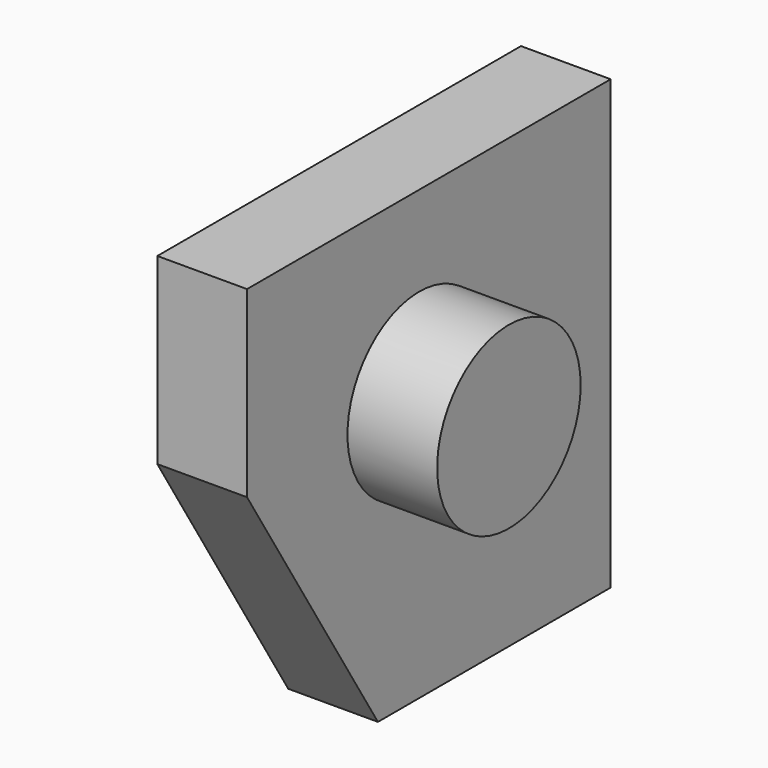
from build123d import *

# Parameters (mm, degrees)
F1_DEPTH = 25.4
F2_R     = 12.7
F3_DEPTH = 12.7


with BuildPart() as f1:
    # F0 (on Right) → F1 (new body)
    with BuildSketch(Plane.YZ):
        Polygon((-40.942196, 34.360733), (-40.942196, 8.416894), (-17.770983, -29.013528), (23.422286, -29.013528), (23.422286, 34.360733), align=None)
    extrude(amount=F1_DEPTH)

    # F2 (on face) → F3 (cut)
    with BuildSketch(Plane.YZ.offset(25.4)):
        Polygon((23.422286, 34.360733), (-40.942196, 34.360733), (-40.942196, 8.416894), (-17.770983, -29.013528), (23.422286, -29.013528), align=None)
        with Locations((-10.462196, 8.960733)):
            Circle(F2_R, mode=Mode.SUBTRACT)
    extrude(amount=-F3_DEPTH, mode=Mode.SUBTRACT)


solid = f1.part
